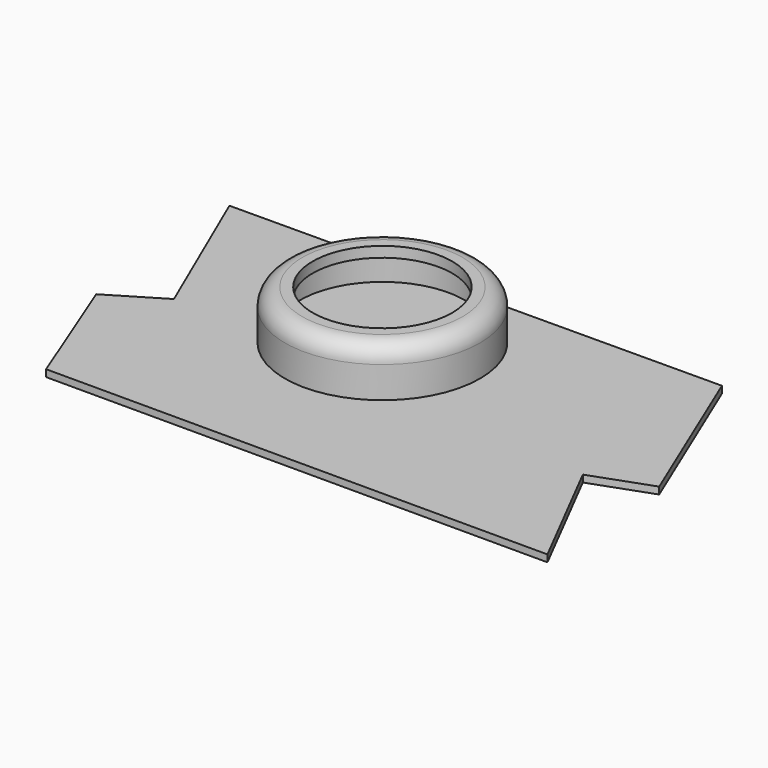
from build123d import *

# Parameters (mm, degrees)
F2_R      = 5
F3_W      = 5
F3_H      = 5
F4_DEPTH  = 0.6
F5_DEPTH  = 2
F6_R      = 0.5
F7_COUNT  = 12
F8_R      = 22
F9_DEPTH  = 1.5
F10_R     = 23.6596202655
F10_R_2   = 1.05
F11_DEPTH = 3
F14_R     = 0.6
F15_R     = 1.9656801662
F16_DEPTH = 2


with BuildPart() as f1:
    # F0 (on Front) → F1 (revolve)
    with BuildSketch(Plane.XZ):
        Polygon((28, 23), (20, 23), (20, 20), (24, 20), (24, 9), (28, 9), align=None)
    revolve(axis=Axis((0, 0, 10), (0, 0, 1)))

    # F2
    f2_edges = [f1.edges().sort_by_distance(p)[0] for p in [
        (-28, 0, 23),
    ]]
    fillet(f2_edges, radius=F2_R)


with BuildPart() as f4:
    # F3 (on Top) → F4 (new body)
    with BuildSketch(Plane.XY):
        with Locations((0, 12.5)):
            Rectangle(F3_W, F3_H)
        Polygon((2.5, 10), (-2.5, 10), (-4.8618013971, 9.3742617418), (-4.529173512, 8.1187831238), (0, 9.3187473324), (4.7109420411, 8.1187831238), (5.0223927477, 9.3742617418), align=None)
    extrude(amount=-F4_DEPTH)

    # F3 (on Top) → F5 (join)
    with BuildSketch(Plane.XY):
        with Locations((0, 12.5)):
            Rectangle(F3_W, F3_H)
    extrude(amount=F5_DEPTH)

    # F6
    f6_edges = [f4.edges().sort_by_distance(p)[0] for p in [
        (2.5, 10, 1),
        (2.5, 15, 0.7),
        (-2.5, 10, 1),
        (-2.5, 15, 0.7),
    ]]
    fillet(f6_edges, radius=F6_R)

    # F7: F4 ×12 about axis
    f7_axis = Axis((0, 0, 10), (0, 0, 1))


with BuildPart() as f4_1:
    add(f4.part)
    for i in range(1, F7_COUNT):
        add(f4.part.rotate(f7_axis, i * 360 / F7_COUNT))


with BuildPart() as f9:
    # F8 (on Top) → F9 (new body)
    with BuildSketch(Plane.XY):
        Circle(F8_R)
    extrude(amount=F9_DEPTH)


with BuildPart() as f11:
    # F10 (on face) → F11 (new body)
    with BuildSketch(Plane(origin=(0, 0, 9), x_dir=(1, 0, 0), z_dir=(0, 0, -1))):
        Circle(F10_R)
        Circle(F10_R_2, mode=Mode.SUBTRACT)
    extrude(amount=-F11_DEPTH)


with BuildPart() as f13:
    # F12 (on Front) → F13 (revolve)
    with BuildSketch(Plane.XZ):
        Polygon((0, 0), (0, -14.8931815732), (7.0563749877, -14.8931815732), (7.0563749877, -9.1947382343), (1.686361846, -9.1947382343), (1.686361846, -5.5626983433), (1.202185913, -5.5626983433), (1.202185913, -6.2248544003), (1, -6.2248544003), (1, 0), align=None)
    revolve(axis=Axis((0, 0, -7.4465907866), (0, 0, 1)))

    # F14
    f14_edges = [f13.edges().sort_by_distance(p)[0] for p in [
        (-7.056375, 0, -9.194738),
        (-7.056375, 0, -14.893182),
    ]]
    fillet(f14_edges, radius=F14_R)


with BuildPart() as f16:
    # F15 (on Top) → F16 (new body)
    with BuildSketch(Plane.XY):
        Polygon((64.080491662, 41.6246652603), (-76.6287222505, 40.9164018929), (-58.043721073, -2.20802535), (-73.0873867869, -11.2593322992), (-59.1450856517, -46.6727204621), (84.6713928472, -46.6727204621), (66.6774734855, -11.4954207093), (83.6758986115, -5.357102491), align=None)
        Circle(F15_R, mode=Mode.SUBTRACT)
    extrude(amount=F16_DEPTH)


solid = Compound([f1.part, f4_1.part, f9.part, f11.part, f13.part, f16.part])
